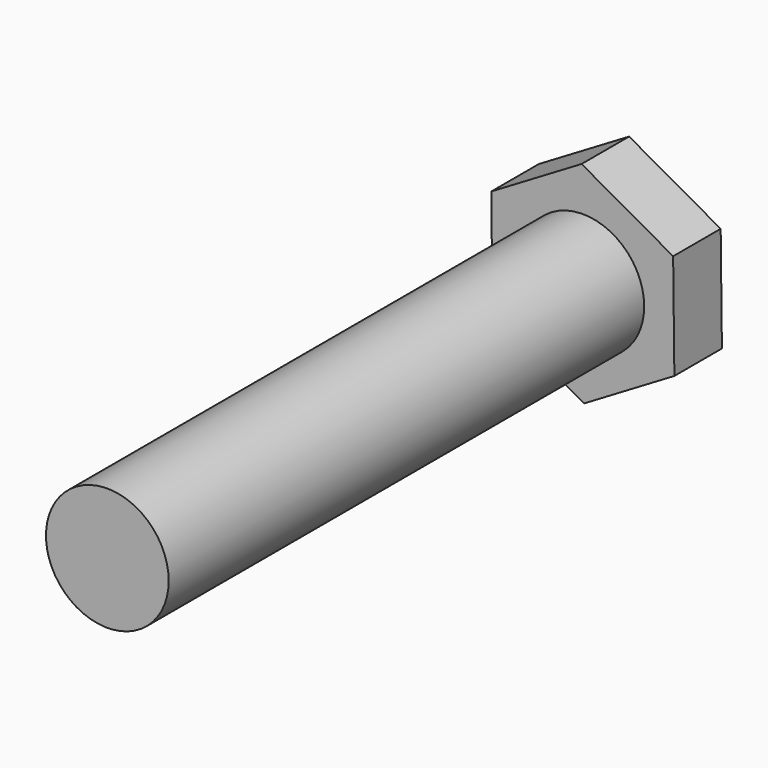
from build123d import *

# Parameters (mm, degrees)
F1_DEPTH = 12
F2_R     = 12.39
F3_DEPTH = 120


with BuildPart() as f1:
    # F0 (on Front) → F1 (new body)
    with BuildSketch(Plane.XZ):
        Polygon((-0.24929, 21.200885), (-18.48515, 10.384551), (-18.23586, -10.816334), (0.24929, -21.200885), (18.48515, -10.384551), (18.23586, 10.816334), align=None)
    extrude(amount=-F1_DEPTH)

    # F2 (on face) → F3 (join)
    with BuildSketch(Plane.XZ):
        Circle(F2_R)
    extrude(amount=F3_DEPTH)


solid = f1.part
